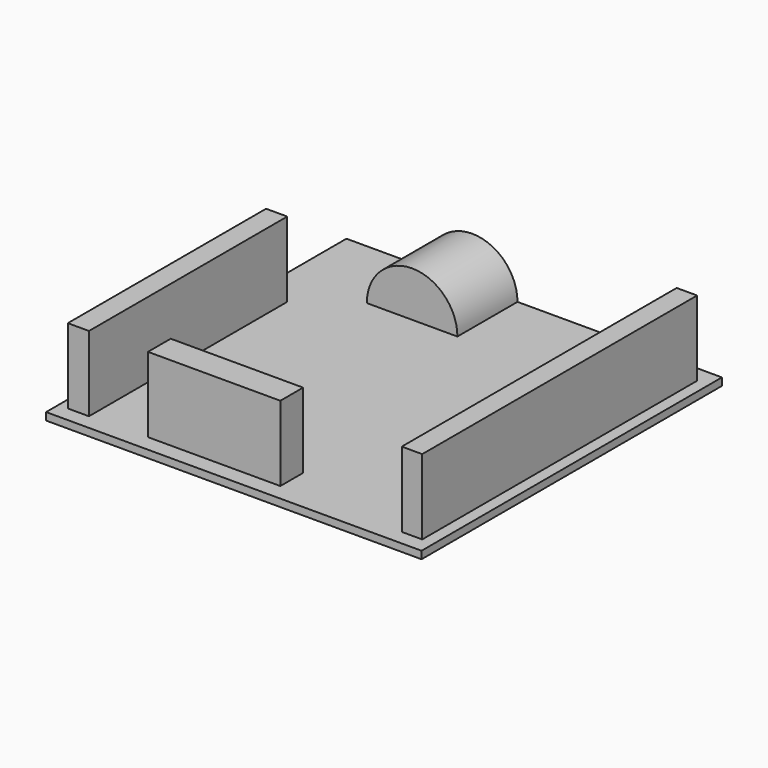
from build123d import *

# Parameters (mm, degrees)
F0_W     = 50
F0_H     = 50
F1_DEPTH = 1
F2_W     = 2.719909
F2_H     = 45.7574
F3_DEPTH = 10
F4_W     = 2.818288
F4_H     = 33.003134
F5_DEPTH = 10
F6_W     = 17.629229
F6_H     = 3.787741
F7_DEPTH = 10
F9_DEPTH = 10


with BuildPart() as f1:
    # F0 (on Top) → F1 (new body)
    with BuildSketch(Plane.XY):
        Rectangle(F0_W, F0_H)
    extrude(amount=F1_DEPTH)

    # F2 (on face) → F3 (join)
    with BuildSketch(Plane.XY.offset(1)):
        with Locations((22.101672, -0.088033)):
            Rectangle(F2_W, F2_H)
    extrude(amount=F3_DEPTH)

    # F4 (on face) → F5 (join)
    with BuildSketch(Plane.XY.offset(1)):
        with Locations((-22.33317, -6.452603)):
            Rectangle(F4_W, F4_H)
    extrude(amount=F5_DEPTH)

    # F6 (on face) → F7 (join)
    with BuildSketch(Plane.XY.offset(1)):
        with Locations((-4.384833, -20.898708)):
            Rectangle(F6_W, F6_H)
    extrude(amount=F7_DEPTH)

    # F8 (on face) → F9 (join)
    with BuildSketch(Plane(origin=(0, 25, 0), x_dir=(-1, 0, 0), z_dir=(0, 1, 0))):
        with BuildLine():
            Line((2.223496, 1), (14.291007, 1))
            ThreePointArc((14.291007, 1), (8.257251, 7.033755), (2.223496, 1))
        make_face()
    extrude(amount=-F9_DEPTH)


solid = f1.part
